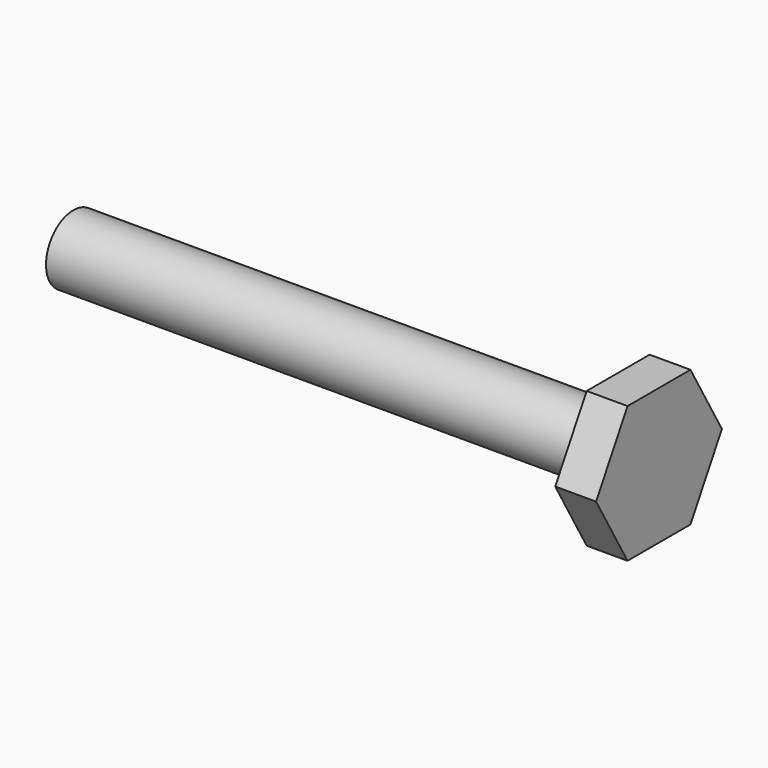
from build123d import *

# Parameters (mm, degrees)
F1_DEPTH = 3.81
F2_R     = 3.175
F3_DEPTH = 50.8


with BuildPart() as f1:
    # F0 (on Right) → F1 (new body)
    with BuildSketch(Plane.YZ):
        Polygon((-3.666174, -6.35), (3.666174, -6.35), (7.332348, 0), (3.666174, 6.35), (-3.666174, 6.35), (-7.332348, 0), align=None)
    extrude(amount=F1_DEPTH)

    # F2 (on Right) → F3 (join)
    with BuildSketch(Plane.YZ):
        Circle(F2_R)
    extrude(amount=-F3_DEPTH)


solid = f1.part
